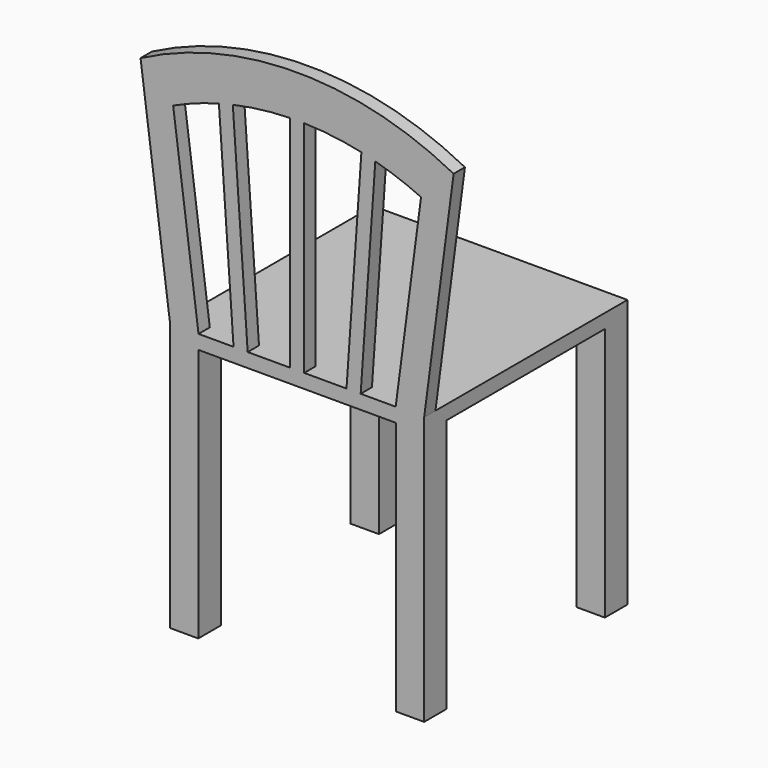
from build123d import *

# Parameters (mm, degrees)
F1_W     = 450
F1_H     = 450
F2_DEPTH = 25
F3_W     = 50
F3_H     = 50
F4_DEPTH = 450
F6_DEPTH = 25
F8_DEPTH = 25


with BuildPart() as f2:
    # F1 (on offset) → F2 (new body)
    with BuildSketch(Plane.XY.offset(450)):
        Rectangle(F1_W, F1_H)
    extrude(amount=F2_DEPTH)

    # F3 (on face) → F4 (join, through all)
    with BuildSketch(Plane(origin=(0, 0, 450), x_dir=(1, 0, 0), z_dir=(0, 0, -1))):
        with Locations((-200, -200)):
            Rectangle(F3_W, F3_H)
        with Locations((-200, 200)):
            Rectangle(F3_W, F3_H)
        with Locations((200, -200)):
            Rectangle(F3_W, F3_H)
        with Locations((200, 200)):
            Rectangle(F3_W, F3_H)
    extrude(amount=F4_DEPTH)

    # F5 (on face) → F6 (join)
    with BuildSketch(Plane.XZ.offset(225)):
        with BuildLine():
            Line((-277.210476888, 871.5779445495), (-225, 475))
            Line((-225, 475), (-174.568551971, 475))
            Line((-174.568551971, 475), (-219.5097934393, 816.3626197141))
            ThreePointArc((-219.5097934393, 816.3626197141), (0, 864.4554478408), (219.5097934393, 816.3626197141))
            Line((219.5097934393, 816.3626197141), (174.568551971, 475))
            Line((174.568551971, 475), (225, 475))
            Line((225, 475), (277.210476888, 871.5779445495))
            ThreePointArc((277.210476888, 871.5779445495), (0, 939.4554478408), (-277.210476888, 871.5779445495))
        make_face()
    extrude(amount=-F6_DEPTH)

    # F7 (on face) → F8 (join)
    with BuildSketch(Plane.XZ.offset(225)):
        with BuildLine():
            ThreePointArc((12.5, 864.3066172212), (0, 864.4554478408), (-12.5, 864.3066172212))
            Line((-12.5, 864.3066172212), (-12.5, 475))
            Line((-12.5, 475), (12.5, 475))
            Line((12.5, 475), (12.5, 864.3066172212))
        make_face()
        with BuildLine():
            Line((-140.2890822889, 871.5293721566), (-112.561047452, 475))
            Line((-112.561047452, 475), (-87.5, 475))
            Line((-87.5, 475), (-115.6574592783, 877.6704277765))
            ThreePointArc((-115.6574592783, 877.6704277765), (-127.9664582867, 874.5725752089), (-140.2890822889, 871.5293721566))
        make_face()
        with BuildLine():
            Line((87.5, 475), (112.561047452, 475))
            Line((112.561047452, 475), (140.2890822889, 871.5293721566))
            ThreePointArc((140.2890822889, 871.5293721566), (127.9664582867, 874.5725752089), (115.6574592783, 877.6704277765))
            Line((115.6574592783, 877.6704277765), (87.5, 475))
        make_face()
    extrude(amount=-F8_DEPTH)


solid = f2.part
